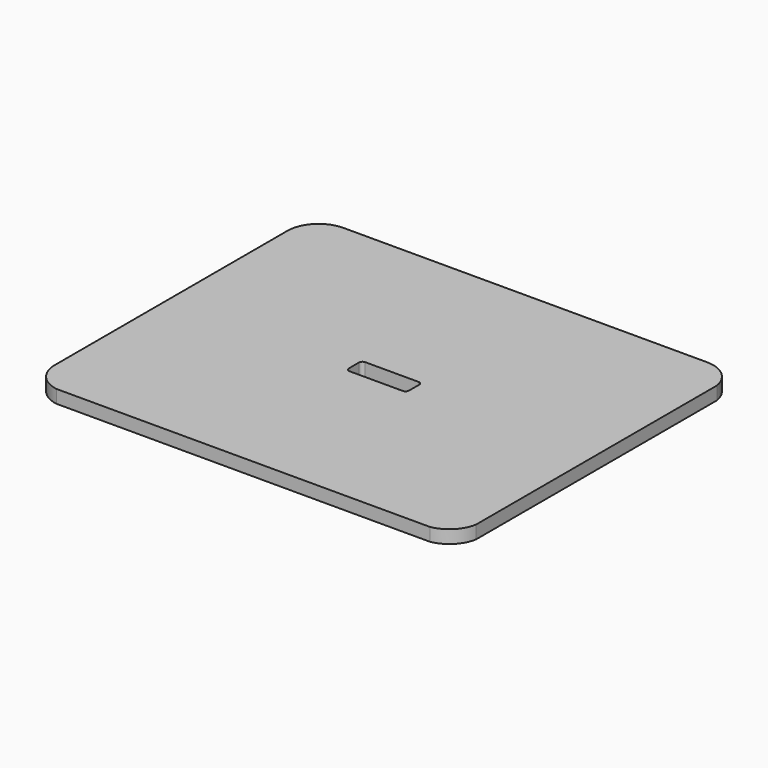
from build123d import *

# Parameters (mm, degrees)
F1_DEPTH = 9


with BuildPart() as f1:
    # F0 (on Top) → F1 (new body)
    with BuildSketch(Plane.XY):
        with BuildLine():
            Line((125, 121.4376), (-125, 121.4376))
            ThreePointArc((-125, 121.4376), (-140.158672, 115.158672), (-146.4376, 100))
            Line((-146.4376, 100), (-146.4376, -100))
            ThreePointArc((-146.4376, -100), (-141.34213, -113.874634), (-128.477989, -121.153588))
            Line((-128.477989, -121.153588), (128.477989, -121.153588))
            ThreePointArc((128.477989, -121.153588), (140.137893, -115.179423), (146.14398, -103.53593))
            Line((146.14398, -103.53593), (146.14398, 103.53593))
            ThreePointArc((146.14398, 103.53593), (138.852235, 116.361121), (125, 121.4376))
        make_face()
        with BuildLine():
            Line((-20.699834, -4.40422), (-20.699834, 0))
            Line((-20.699834, 0), (-20.699834, 4.40422))
            ThreePointArc((-20.699834, 4.40422), (-20.011852, 6.065156), (-18.350917, 6.753138))
            Line((-18.350917, 6.753138), (18.350917, 6.753138))
            ThreePointArc((18.350917, 6.753138), (20.011852, 6.065156), (20.699834, 4.40422))
            Line((20.699834, 4.40422), (20.699834, 0))
            Line((20.699834, 0), (20.699834, -4.40422))
            ThreePointArc((20.699834, -4.40422), (20.011852, -6.065156), (18.350917, -6.753138))
            Line((18.350917, -6.753138), (-18.350917, -6.753138))
            ThreePointArc((-18.350917, -6.753138), (-20.011852, -6.065156), (-20.699834, -4.40422))
        make_face(mode=Mode.SUBTRACT)
    extrude(amount=F1_DEPTH)


solid = f1.part
